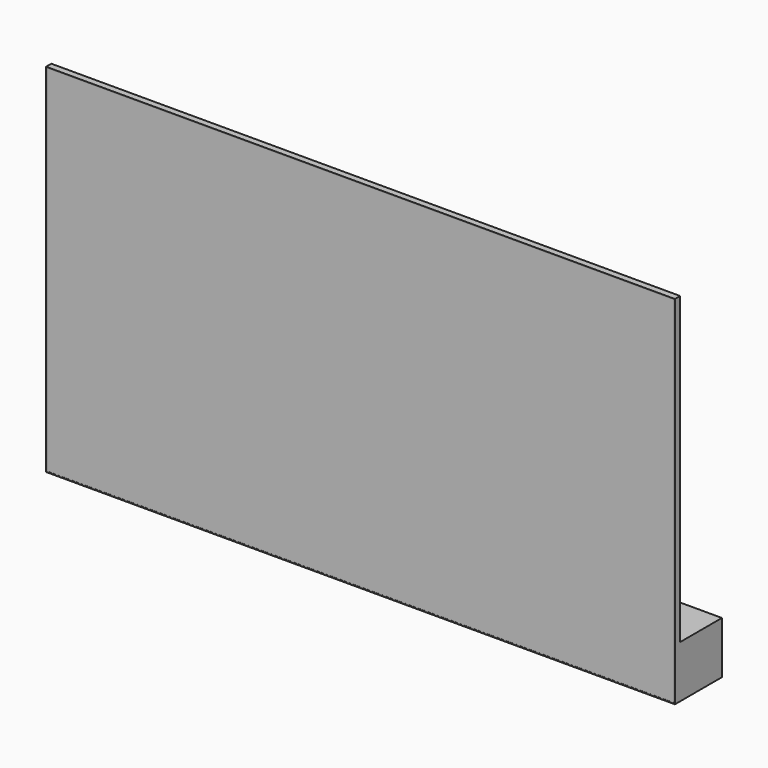
from build123d import *

# Parameters (mm, degrees)
SKETCH003_W     = 9640
SKETCH003_H     = 5470
PAD_DEPTH       = 100
SKETCH004_W     = 9640
SKETCH004_H     = 800
PAD001_DEPTH    = 800
SKETCH005_W     = 9440
SKETCH005_H     = 5226.685058
PAD002_DEPTH    = 400
PAD002_TAPER    = 45
PAD003_DEPTH    = 2500
POCKET_DEPTH    = 9640.001
SKETCH010_W     = 1236.56592
SKETCH010_H     = 1815.766773
SKETCH010_H_2   = 662.941528
POCKET001_DEPTH = 330
FILLET_R        = 50
FILLET001_R     = 50
SKETCH011_W     = 9615.6
SKETCH011_H     = 5445.6
POCKET002_DEPTH = 2


with BuildPart() as part:
    # Sketch003 → Pad (new body)
    with BuildSketch(Plane.XZ):
        with Locations((0, 3555)):
            Rectangle(SKETCH003_W, SKETCH003_H)
    extrude(amount=PAD_DEPTH)

    # Sketch004 (on Face5 of Pad) → Pad001 (join)
    with BuildSketch(Plane(origin=(0, 0, 0), x_dir=(1, 0, 0), z_dir=(0, 1, 0))):
        with Locations((0, -1220)):
            Rectangle(SKETCH004_W, SKETCH004_H)
    extrude(amount=PAD001_DEPTH)

    # Sketch005 (on Face3 of Pad001) → Pad002 (join)
    with BuildSketch(Plane(origin=(0, 0, 0), x_dir=(1, 0, 0), z_dir=(0, 1, 0))):
        with Locations((0, -3576.657471)):
            Rectangle(SKETCH005_W, SKETCH005_H)
    extrude(amount=PAD002_DEPTH, taper=PAD002_TAPER)

    # Sketch008 (on Face7 of Pad002) → Pad003 (join)
    with BuildSketch(Plane(origin=(0, 0, 1620), x_dir=(-1, 0, 0), z_dir=(0, 0, 1))):
        with BuildLine():
            Line((0, -400), (-4226.42, -400))
            add(Edge.make_bspline(
                [(-4226.42, -400), (-3745.477539, -741.541138), (-3483.424561, -773.58844), (-3109.89, -800)],
                knots=[0, 0, 0, 0, 1, 1, 1, 1], degree=3))
            Line((-3109.89, -800), (0, -800))
            Line((0, -800), (3109.89, -800))
            add(Edge.make_bspline(
                [(4226.42, -400), (3745.477539, -741.541138), (3483.424561, -773.58844), (3109.89, -800)],
                knots=[0, 0, 0, 0, 1, 1, 1, 1], degree=3))
            Line((4226.42, -400), (0, -400))
        make_face()
    extrude(amount=PAD003_DEPTH)

    # Sketch009 (on Face3 of Pad003) → Pocket (cut, through all)
    with BuildSketch(Plane(origin=(4820, 0, 0), x_dir=(0, 0, 1), z_dir=(1, 0, 0))):
        with BuildLine():
            Line((4120, -800), (3674.068115, -800))
            add(Edge.make_bspline(
                [(4120, -400), (3794.848145, -604.640991), (3674.068115, -800)],
                knots=[0, 0, 0, 1, 1, 1], degree=2))
            Line((4120, -400), (4120, -800))
        make_face()
    extrude(amount=-POCKET_DEPTH, mode=Mode.SUBTRACT)

    # Sketch010 (on Face6 of Pocket) → Pocket001 (cut)
    with BuildSketch(Plane(origin=(0, 800, 0), x_dir=(1, 0, 0), z_dir=(0, 1, 0))):
        with Locations((3905.727294, -2647.034058)):
            Rectangle(SKETCH010_W, SKETCH010_H)
        with Locations((-3905.727294, -2064.041443)):
            Rectangle(SKETCH010_W, SKETCH010_H_2)
    extrude(amount=-POCKET001_DEPTH, mode=Mode.SUBTRACT)

    # Fillet
    fillet_edges = [part.edges().sort_by_distance(p)[0] for p in [
        (3287.444334, 470, 2647.034058),
        (-3287.444334, 470, 2064.041443),
    ]]
    fillet(fillet_edges, radius=FILLET_R)

    # Fillet001
    fillet001_edges = [part.edges().sort_by_distance(p)[0] for p in [
        (3730.930074, 470, 3554.917444),
        (3287.444334, 652.535917, 1739.150671),
        (-3730.930074, 470, 1732.570679),
        (-3730.930074, 470, 2395.512207),
    ]]
    fillet(fillet001_edges, radius=FILLET001_R)

    # Sketch011 (on Face27 of Fillet001) → Pocket002 (cut)
    with BuildSketch(Plane.XZ.offset(100)):
        with Locations((0, 3555)):
            Rectangle(SKETCH011_W, SKETCH011_H)
    extrude(amount=-POCKET002_DEPTH, mode=Mode.SUBTRACT)


solid = part.part
